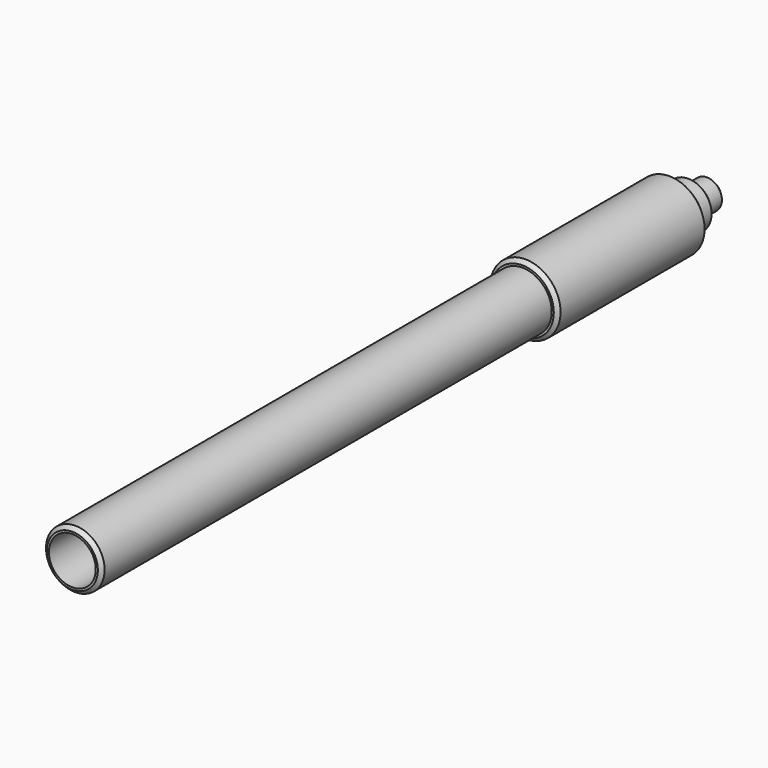
from build123d import *

# Parameters (mm, degrees)
F0_R     = 2.032
F0_R_2   = 1.2446
F1_DEPTH = 3.175
F2_R     = 3.175
F3_DEPTH = 3.175
F4_R     = 4.7625
F5_DEPTH = 25.4
F6_R     = 3.96875
F7_DEPTH = 76.2
F9_D     = 6.35
F9_DEPTH = 100.33
F9_TIP   = 1.9077324654
F10_D    = 2.4892
F11_SIZE = 0.508


with BuildPart() as f1:
    # F0 (on Front) → F1 (new body)
    with BuildSketch(Plane.XZ):
        Circle(F0_R)
        Circle(F0_R_2, mode=Mode.SUBTRACT)
    extrude(amount=F1_DEPTH)

    # F2 (on face) → F3 (join)
    with BuildSketch(Plane.XZ.offset(3.175)):
        Circle(F2_R)
    extrude(amount=F3_DEPTH)

    # F4 (on face) → F5 (join)
    with BuildSketch(Plane.XZ.offset(6.35)):
        Circle(F4_R)
    extrude(amount=F5_DEPTH)

    # F6 (on face) → F7 (join)
    with BuildSketch(Plane.XZ.offset(31.75)):
        Circle(F6_R)
    extrude(amount=F7_DEPTH)

    # F9
    with Locations(Plane.XZ.offset(107.95)):
        with Locations((0, 0)):
            Hole(F9_D / 2, depth=F9_DEPTH)
            with Locations((0, 0, -(F9_DEPTH + F9_TIP / 2))):  # 118° drill point
                Cone(0, F9_D / 2, F9_TIP, mode=Mode.SUBTRACT)

    # F10 (through all)
    with Locations(Plane.XZ.offset(107.95)):
        with Locations((0, 0)):
            Hole(F10_D / 2)

    # F11
    f11_edges = [f1.edges().sort_by_distance(p)[0] for p in [
        (-2.032, 0, 0),
        (-3.175, -3.175, 0),
        (-4.7625, -6.35, 0),
        (-4.7625, -31.75, 0),
        (-3.96875, -107.95, 0),
    ]]
    chamfer(f11_edges, length=F11_SIZE)


solid = f1.part
